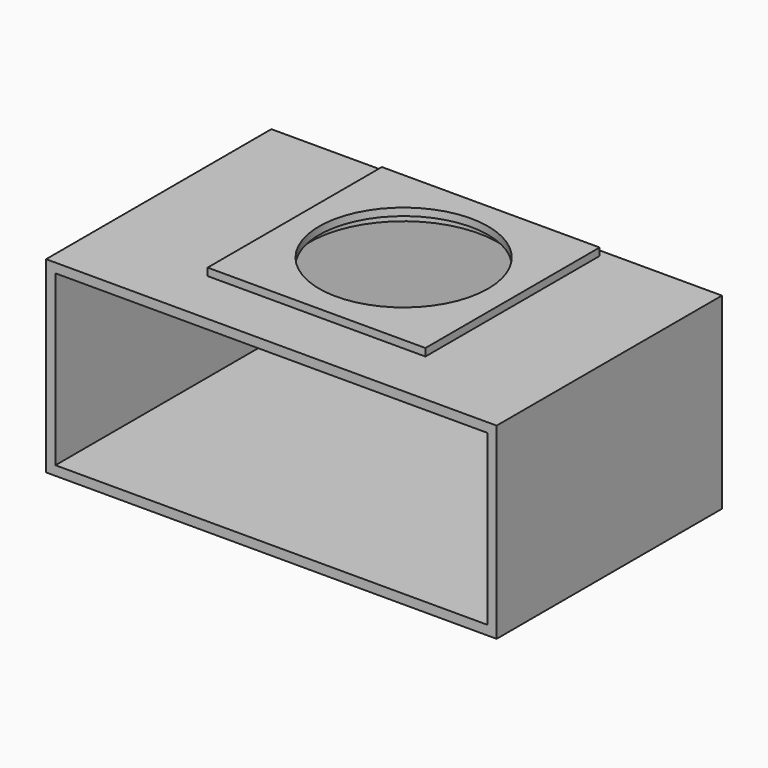
from build123d import *

# Parameters (mm, degrees)
F0_W     = 120
F0_H     = 50
F1_DEPTH = 75
F2_T     = -2.5
F3_R     = 25
F4_DEPTH = 2.5
F5_W     = 58
F5_H     = 58
F5_R     = 22.5
F6_DEPTH = 2


with BuildPart() as f1:
    # F0 (on Front) → F1 (new body)
    with BuildSketch(Plane.XZ):
        Rectangle(F0_W, F0_H)
    extrude(amount=-F1_DEPTH)

    # F2
    f2_openings = [f1.faces().sort_by_distance(p)[0] for p in [
        (0, 0, 0),
    ]]
    offset(amount=F2_T, openings=f2_openings)

    # F3 (on face) → F4 (cut, through all)
    with BuildSketch(Plane.XY.offset(25)):
        with Locations((0, 44.035366)):
            Circle(F3_R)
    extrude(amount=-F4_DEPTH, mode=Mode.SUBTRACT)

    # F5 (on face) → F6 (join)
    with BuildSketch(Plane.XY.offset(25)):
        with Locations((0, 44.035366)):
            Rectangle(F5_W, F5_H)
        with Locations((0, 44.035366)):
            Circle(F5_R, mode=Mode.SUBTRACT)
    extrude(amount=F6_DEPTH)


solid = f1.part
